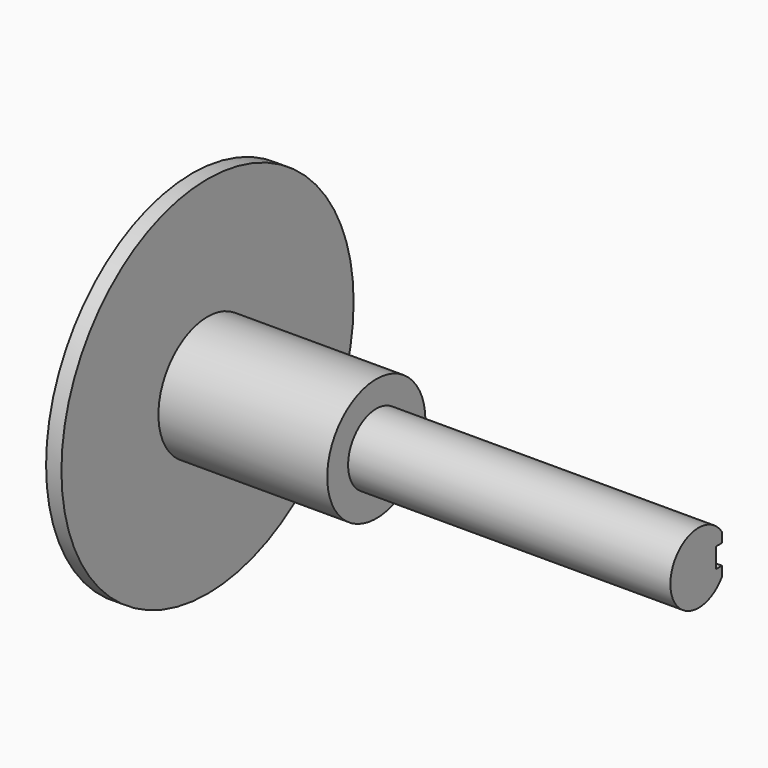
from build123d import *

# Parameters (mm, degrees)
SKETCH017_R             = 4
PAD005_DEPTH            = 12
PAD006_DEPTH            = 21
SKETCH020_R             = 11.9
PAD007_DEPTH            = 1
BODY004_PLACEMENT_ANGLE = 180


with BuildPart() as part:
    # Sketch017 → Pad005 (new body)
    with BuildSketch(Plane.YZ):
        Circle(SKETCH017_R)
    extrude(amount=PAD005_DEPTH)

    # Sketch018 → Pad006 (join)
    with BuildSketch(Plane.YZ):
        with BuildLine():
            ThreePointArc((1.9, 1.296148), (-2.3, 0), (1.9, -1.296148))
            Line((1.9, -0.65), (1.9, -1.296148))
            Line((1.4, -0.65), (1.9, -0.65))
            Line((1.4, 0.65), (1.4, -0.65))
            Line((1.9, 0.65), (1.4, 0.65))
            Line((1.9, 1.296148), (1.9, 0.65))
        make_face()
    extrude(amount=-PAD006_DEPTH)

    # Sketch020 (on Face3 of Pad006) → Pad007 (join)
    with BuildSketch(Plane.YZ.offset(12)):
        Circle(SKETCH020_R)
    extrude(amount=-PAD007_DEPTH)


with BuildPart() as part_1:
    # Body004 placement: moved
    add(part.part.moved(Location((-22, 0, 0))).rotate(Axis((-22, 0, 0), (0, 1, 0)), BODY004_PLACEMENT_ANGLE))


solid = part_1.part
